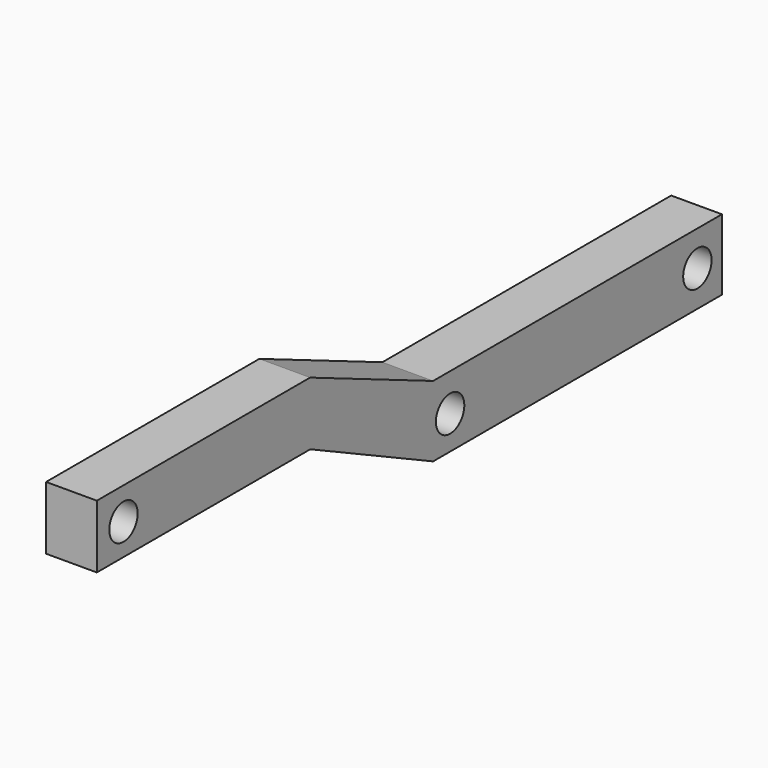
from build123d import *

# Parameters (mm, degrees)
F0_R     = 1.75
F1_DEPTH = 5


with BuildPart() as f1:
    # F0 (on Right) → F1 (new body)
    with BuildSketch(Plane.YZ):
        Polygon((-4.952021, 0), (30.612491, 0), (30.612491, 6.977847), (-4.952021, 6.977847), (-20.108204, 13.43048), (-46.368921, 13.43048), (-46.368921, 7.202329), (-20.083733, 7.202329), (-20.082543, 7.202329), align=None)
        with Locations((-2.861655, 3.302775)):
            Circle(F0_R, mode=Mode.SUBTRACT)
        with Locations((27.591719, 3.514993)):
            Circle(F0_R, mode=Mode.SUBTRACT)
        with Locations((-43.087251, 10.273085)):
            Circle(F0_R, mode=Mode.SUBTRACT)
    extrude(amount=F1_DEPTH)


solid = f1.part
